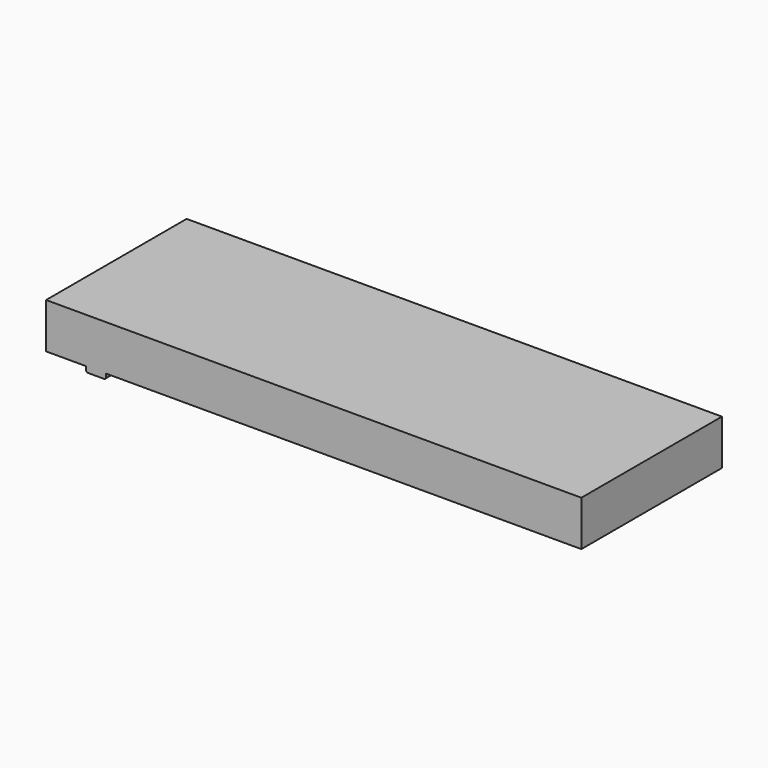
from build123d import *

# Parameters (mm, degrees)
F1_DEPTH = 98.6


with BuildPart() as f1:
    # F0 (on Front) → F1 (new body)
    with BuildSketch(Plane.XZ):
        with BuildLine():
            Line((0, 25.4), (0, 0))
            Line((0, 0), (22.5, 0))
            Line((22.5, 0), (22.5, -2))
            ThreePointArc((22.5, -2), (22.792893, -2.707107), (23.5, -3))
            Line((23.5, -3), (32.5, -3))
            ThreePointArc((32.5, -3), (33.207107, -2.707107), (33.5, -2))
            Line((33.5, -2), (33.5, 0))
            Line((33.5, 0), (300.4, 0))
            Line((300.4, 0), (300.4, 25.4))
            Line((300.4, 25.4), (0, 25.4))
        make_face()
    extrude(amount=-F1_DEPTH)


solid = f1.part
